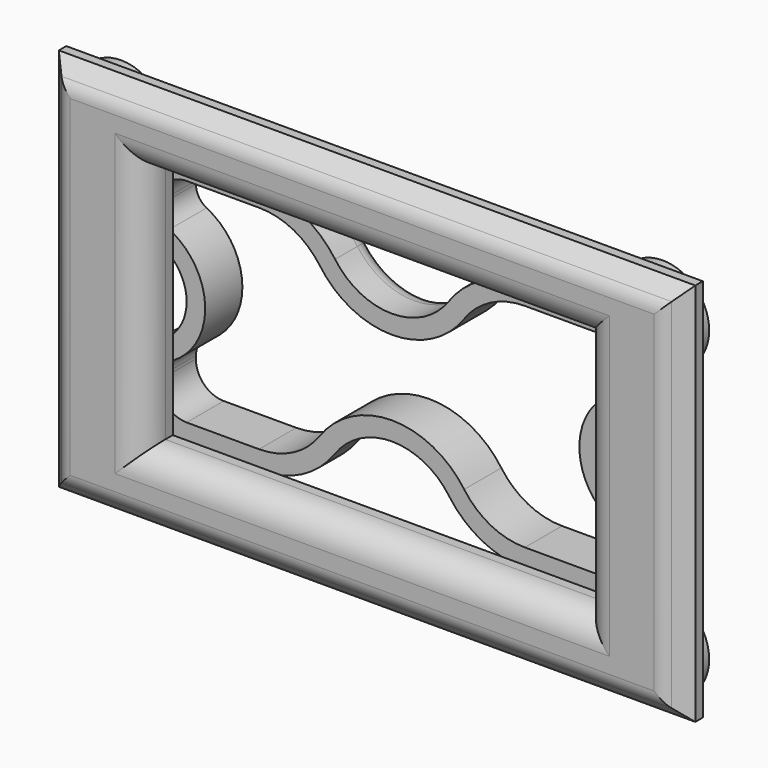
from build123d import *

# Parameters (mm, degrees)
F0_W      = 137.6357078552
F0_H      = 68.2628676295
F1_DEPTH  = 12.7
F2_R      = 12.7
F5_DEPTH  = 25.4
F6_R      = 25.4
F8_DEPTH  = 25.4
F10_DEPTH = 25.4
F11_R     = 10.414
F12_R     = 5.08
F14_DEPTH = 25.4
F15_W     = 147.9870229959
F15_H     = 79.1546478868
F16_DEPTH = 2.54
F17_R     = 12.7
F18_DEPTH = 2.54
F19_R     = 50.8
F20_R     = 50.8
F21_R     = 50.8
F22_R     = 50.8
F23_W     = 173.9475429058
F23_H     = 104.9968674779
F24_DEPTH = 7.62
F25_SIZE  = 5.08
F26_R     = 5.08
F27_W     = 119.8056712747
F27_H     = 66.657833755
F28_DEPTH = 10.16
F29_R     = 7.62


with BuildPart() as f1:
    # F0 (on Front) → F1 (new body)
    with BuildSketch(Plane.XZ):
        Rectangle(F0_W, F0_H)
    extrude(amount=F1_DEPTH)

    # F2
    f2_edges = [f1.edges().sort_by_distance(p)[0] for p in [
        (-68.817854, -6.35, 34.131434),
        (68.817854, -6.35, 34.131434),
        (68.817854, -6.35, -34.131434),
        (-68.817854, -6.35, -34.131434),
    ]]
    fillet(f2_edges, radius=F2_R)

    # F4 (on face) → F5 (cut)
    with BuildSketch(Plane.XZ.offset(12.7)):
        with BuildLine():
            Line((-19.1200878216, -34.1314338148), (19.1200878216, -34.1314338148))
            ThreePointArc((19.1200878216, -34.1314338148), (0, -15.3615530935), (-19.1200878216, -34.1314338148))
        make_face()
        with BuildLine():
            ThreePointArc((-19.0234345987, 34.1314338148), (0, 15.3648180736), (19.0234345987, 34.1314338148))
            Line((19.0234345987, 34.1314338148), (-19.0234345987, 34.1314338148))
        make_face()
    extrude(amount=-F5_DEPTH, mode=Mode.SUBTRACT)

    # F6
    f6_edges = [f1.edges().sort_by_distance(p)[0] for p in [
        (-19.120088, -6.35, -34.131434),
        (19.120088, -6.35, -34.131434),
        (-19.023435, -6.35, 34.131434),
        (19.023435, -6.35, 34.131434),
    ]]
    fillet(f6_edges, radius=F6_R)

    # F3 (on face) → F8 (cut)
    with BuildSketch(Plane.XZ.offset(12.7)):
        with BuildLine():
            ThreePointArc((-68.8178539276, -12.7), (-59.8375978065, -8.9802561211), (-56.1178539276, 0))
            ThreePointArc((-56.1178539276, 0), (-59.8375978065, 8.9802561211), (-68.8178539276, 12.7))
            Line((-68.8178539276, 12.7), (-68.8178539276, -12.7))
        make_face()
    extrude(amount=-F8_DEPTH, mode=Mode.SUBTRACT)

    # F9 (on face) → F10 (cut)
    with BuildSketch(Plane.XZ.offset(12.7)):
        with BuildLine():
            Line((68.8178539276, -12.7031007157), (68.8178539276, 12.7031007157))
            ThreePointArc((68.8178539276, 12.7031007157), (56.2983967758, 0), (68.8178539276, -12.7031007157))
        make_face()
    extrude(amount=-F10_DEPTH, mode=Mode.SUBTRACT)

    # F11
    f11_edges = [f1.edges().sort_by_distance(p)[0] for p in [
        (-68.817854, -6.35, 12.7),
        (-68.817854, -6.35, -12.7),
        (68.817854, -6.35, -12.703101),
        (68.817854, -6.35, 12.703101),
    ]]
    fillet(f11_edges, radius=F11_R)

    # F12
    f12_edges = [f1.edges().sort_by_distance(p)[0] for p in [
        (68.817854, 0, 20.988545),
        (67.2969, 0, 15.126696),
        (65.09811, 0, 30.41169),
        (56.298397, 0, 0),
        (46.192012, 0, 34.131434),
        (67.2969, 0, -15.126696),
        (24.592779, 0, 31.290067),
        (68.817854, 0, -20.988545),
        (0, 0, 15.364818),
        (65.09811, 0, -30.41169),
        (-24.592779, 0, 31.290067),
        (46.21855, 0, -34.131434),
        (-46.192012, 0, 34.131434),
        (24.657717, 0, -31.296201),
        (-65.09811, 0, 30.41169),
        (0, 0, -15.361553),
        (-68.817854, 0, 21.033246),
        (-24.657717, 0, -31.296201),
        (-67.272735, 0, 15.176638),
        (-46.21855, 0, -34.131434),
        (-56.117854, 0, 0),
        (-65.09811, 0, -30.41169),
        (-67.272735, 0, -15.176638),
        (-68.817854, 0, -21.033246),
    ]]
    fillet(f12_edges, radius=F12_R)

    # F13 (on face) → F14 (cut)
    with BuildSketch(Plane(origin=(0, 0, 0), x_dir=(-1, 0, 0), z_dir=(0, 1, 0))):
        with BuildLine():
            ThreePointArc((-56.1178539276, 29.0514338148), (-61.5060076003, 26.8195874874), (-63.7378539276, 21.4314338148))
            Line((-63.7378539276, 21.4314338148), (-63.7378539276, 20.5456569949))
            ThreePointArc((-63.7378539276, 20.5456569949), (-62.9588285714, 17.7700918282), (-60.8493042485, 15.8052636854))
            ThreePointArc((-60.8493042485, 15.8052636854), (-51.2183967758, 0), (-60.8493042485, -15.8052636854))
            ThreePointArc((-60.8493042485, -15.8052636854), (-62.9588285714, -17.7700918282), (-63.7378539276, -20.5456569949))
            Line((-63.7378539276, -20.5456569949), (-63.7378539276, -21.4314338148))
            ThreePointArc((-63.7378539276, -21.4314338148), (-61.5060076003, -26.8195874874), (-56.1178539276, -29.0514338148))
            Line((-56.1178539276, -29.0514338148), (-36.3192469491, -29.0514338148))
            ThreePointArc((-36.3192469491, -29.0514338148), (-26.9900229374, -26.7832475558), (-19.7435172043, -20.4850538286))
            ThreePointArc((-19.7435172043, -20.4850538286), (0, -10.2815530935), (19.7435172043, -20.4850538286))
            ThreePointArc((19.7435172043, -20.4850538286), (26.9900229374, -26.7832475558), (36.3192469491, -29.0514338148))
            Line((36.3192469491, -29.0514338148), (56.1178539276, -29.0514338148))
            ThreePointArc((56.1178539276, -29.0514338148), (61.5060076003, -26.8195874874), (63.7378539276, -21.4314338148))
            Line((63.7378539276, -21.4314338148), (63.7378539276, -20.6350575478))
            ThreePointArc((63.7378539276, -20.6350575478), (62.9464516934, -17.8392818882), (60.8070846968, -15.8731211906))
            ThreePointArc((60.8070846968, -15.8731211906), (51.0378539276, 0), (60.8070846968, 15.8731211906))
            ThreePointArc((60.8070846968, 15.8731211906), (62.9464516934, 17.8392818882), (63.7378539276, 20.6350575478))
            Line((63.7378539276, 20.6350575478), (63.7378539276, 21.4314338148))
            ThreePointArc((63.7378539276, 21.4314338148), (61.5060076003, 26.8195874874), (56.1178539276, 29.0514338148))
            Line((56.1178539276, 29.0514338148), (36.2661707874, 29.0514338148))
            ThreePointArc((36.2661707874, 29.0514338148), (26.9274577492, 26.7783404414), (19.6780918294, 20.467618735))
            ThreePointArc((19.6780918294, 20.467618735), (0, 10.2848180736), (-19.6780918294, 20.467618735))
            ThreePointArc((-19.6780918294, 20.467618735), (-26.9274577492, 26.7783404414), (-36.2661707874, 29.0514338148))
            Line((-36.2661707874, 29.0514338148), (-56.1178539276, 29.0514338148))
        make_face()
    extrude(amount=-F14_DEPTH, mode=Mode.SUBTRACT)

    # F15 (on face) → F16 (join)
    with BuildSketch(Plane.XZ.offset(12.7)):
        Rectangle(F15_W, F15_H)
    extrude(amount=F16_DEPTH)

    # F17 (on face) → F18 (join)
    with BuildSketch(Plane.XZ.offset(15.24)):
        with Locations((-73.993511498, 39.5773239434)):
            Circle(F17_R)
        with Locations((73.993511498, 39.5773239434)):
            Circle(F17_R)
        with Locations((-73.993511498, -39.5773239434)):
            Circle(F17_R)
        with Locations((73.993511498, -39.5773239434)):
            Circle(F17_R)
    extrude(amount=-F18_DEPTH)

    # F19
    f19_edges = [f1.edges().sort_by_distance(p)[0] for p in [
        (61.293511, -13.97, 39.577324),
        (-61.293511, -13.97, 39.577324),
    ]]
    fillet(f19_edges, radius=F19_R)

    # F20
    f20_edges = [f1.edges().sort_by_distance(p)[0] for p in [
        (-73.993511, -13.97, 26.877324),
        (-61.293511, -13.97, -39.577324),
        (61.293511, -13.97, -39.577324),
    ]]
    fillet(f20_edges, radius=F20_R)

    # F21
    f21_edges = [f1.edges().sort_by_distance(p)[0] for p in [
        (-73.993511, -13.97, -26.877324),
    ]]
    fillet(f21_edges, radius=F21_R)

    # F22
    f22_edges = [f1.edges().sort_by_distance(p)[0] for p in [
        (73.993511, -13.97, -26.877324),
        (73.993511, -13.97, 26.877324),
    ]]
    fillet(f22_edges, radius=F22_R)

    # F23 (on face) → F24 (join)
    with BuildSketch(Plane.XZ.offset(15.24)):
        Rectangle(F23_W, F23_H)
        with BuildLine():
            ThreePointArc((84.153511498, -31.9573239434), (82.973767619, -48.5575800644), (66.373511498, -49.7373239434))
            ThreePointArc((66.373511498, -49.7373239434), (51.9578820116, -42.1842124024), (35.893511498, -39.5773239434))
            Line((35.893511498, -39.5773239434), (-35.893511498, -39.5773239434))
            ThreePointArc((-35.893511498, -39.5773239434), (-51.9578820116, -42.1842124024), (-66.373511498, -49.7373239434))
            ThreePointArc((-66.373511498, -49.7373239434), (-82.973767619, -48.5575800644), (-84.153511498, -31.9573239434))
            ThreePointArc((-84.153511498, -31.9573239434), (-76.600399957, -17.541694457), (-73.993511498, -1.4773239434))
            Line((-73.993511498, -1.4773239434), (-73.993511498, 1.4773239434))
            ThreePointArc((-73.993511498, 1.4773239434), (-76.600399957, 17.541694457), (-84.153511498, 31.9573239434))
            ThreePointArc((-84.153511498, 31.9573239434), (-82.973767619, 48.5575800644), (-66.373511498, 49.7373239434))
            ThreePointArc((-66.373511498, 49.7373239434), (-51.9578820116, 42.1842124024), (-35.893511498, 39.5773239434))
            Line((-35.893511498, 39.5773239434), (35.893511498, 39.5773239434))
            ThreePointArc((35.893511498, 39.5773239434), (51.9578820116, 42.1842124024), (66.373511498, 49.7373239434))
            ThreePointArc((66.373511498, 49.7373239434), (82.973767619, 48.5575800644), (84.153511498, 31.9573239434))
            ThreePointArc((84.153511498, 31.9573239434), (76.600399957, 17.541694457), (73.993511498, 1.4773239434))
            Line((73.993511498, 1.4773239434), (73.993511498, -1.4773239434))
            ThreePointArc((73.993511498, -1.4773239434), (76.600399957, -17.541694457), (84.153511498, -31.9573239434))
        make_face(mode=Mode.SUBTRACT)
        with BuildLine():
            ThreePointArc((35.893511498, -39.5773239434), (51.9578820116, -42.1842124024), (66.373511498, -49.7373239434))
            ThreePointArc((66.373511498, -49.7373239434), (82.973767619, -48.5575800644), (84.153511498, -31.9573239434))
            ThreePointArc((84.153511498, -31.9573239434), (76.600399957, -17.541694457), (73.993511498, -1.4773239434))
            Line((73.993511498, -1.4773239434), (73.993511498, 1.4773239434))
            ThreePointArc((73.993511498, 1.4773239434), (76.600399957, 17.541694457), (84.153511498, 31.9573239434))
            ThreePointArc((84.153511498, 31.9573239434), (82.973767619, 48.5575800644), (66.373511498, 49.7373239434))
            ThreePointArc((66.373511498, 49.7373239434), (51.9578820116, 42.1842124024), (35.893511498, 39.5773239434))
            Line((35.893511498, 39.5773239434), (-35.893511498, 39.5773239434))
            ThreePointArc((-35.893511498, 39.5773239434), (-51.9578820116, 42.1842124024), (-66.373511498, 49.7373239434))
            ThreePointArc((-66.373511498, 49.7373239434), (-82.973767619, 48.5575800644), (-84.153511498, 31.9573239434))
            ThreePointArc((-84.153511498, 31.9573239434), (-76.600399957, 17.541694457), (-73.993511498, 1.4773239434))
            Line((-73.993511498, 1.4773239434), (-73.993511498, -1.4773239434))
            ThreePointArc((-73.993511498, -1.4773239434), (-76.600399957, -17.541694457), (-84.153511498, -31.9573239434))
            ThreePointArc((-84.153511498, -31.9573239434), (-82.973767619, -48.5575800644), (-66.373511498, -49.7373239434))
            ThreePointArc((-66.373511498, -49.7373239434), (-51.9578820116, -42.1842124024), (-35.893511498, -39.5773239434))
            Line((-35.893511498, -39.5773239434), (35.893511498, -39.5773239434))
        make_face()
    extrude(amount=F24_DEPTH)

    # F25
    f25_edges = [f1.edges().sort_by_distance(p)[0] for p in [
        (0, -22.86, 52.498434),
        (-86.973771, -22.86, 0),
        (0, -22.86, -52.498434),
        (86.973771, -22.86, 0),
    ]]
    chamfer(f25_edges, length=F25_SIZE)

    # F26
    f26_edges = [f1.edges().sort_by_distance(p)[0] for p in [
        (-81.893771, -22.86, 0),
        (0, -22.86, -47.418434),
        (0, -22.86, 47.418434),
        (81.893771, -22.86, 0),
    ]]
    fillet(f26_edges, radius=F26_R)

    # F27 (on face) → F28 (cut)
    with BuildSketch(Plane.XZ.offset(22.86)):
        Rectangle(F27_W, F27_H)
    extrude(amount=-F28_DEPTH, mode=Mode.SUBTRACT)

    # F29
    f29_edges = [f1.edges().sort_by_distance(p)[0] for p in [
        (-79.789567, -22.86, 0),
        (0, -22.86, 45.314229),
        (0, -22.86, -45.314229),
        (79.789567, -22.86, 0),
        (0, -22.86, 33.328917),
        (-59.902836, -22.86, 0),
        (0, -22.86, -33.328917),
        (59.902836, -22.86, 0),
    ]]
    fillet(f29_edges, radius=F29_R)


solid = f1.part
